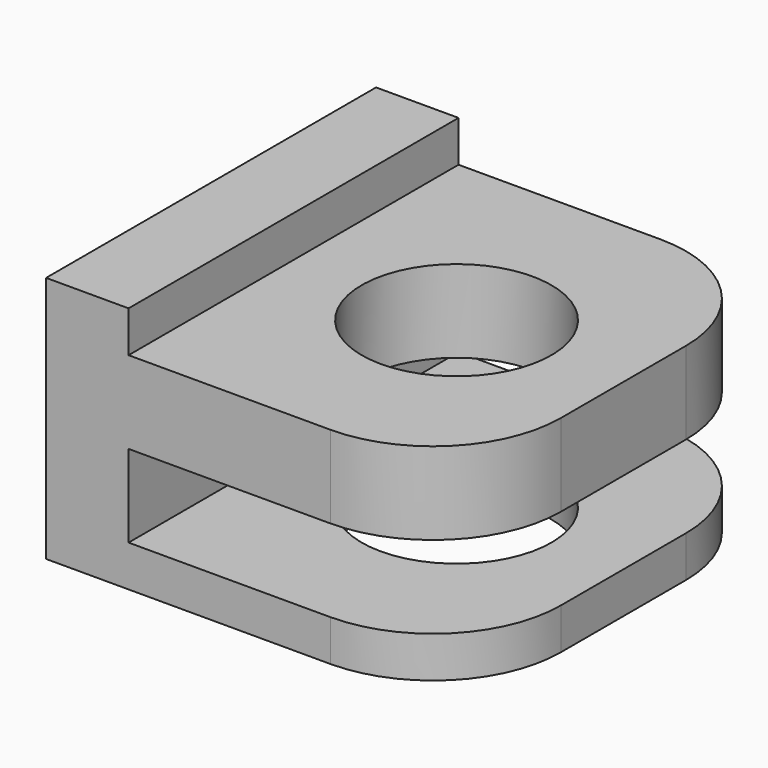
from build123d import *

# Parameters (mm, degrees)
BOX106_W                                  = 10
BOX106_H                                  = 10
BOX106_DEPTH                              = 1
BOX105_W                                  = 10
BOX105_H                                  = 10
BOX105_DEPTH                              = 10
SKETCH012_AS_DRAWN_R                      = 1.15
EXTRUDE002_DEPTH                          = 3
EXTRUDE002_ONTO_SKETCH012_PLACEMENT_ANGLE = -90


with BuildPart() as cubo106:
    # Box106 → Box106 (new body)
    with BuildSketch(Plane(origin=(-4, 226, -1), x_dir=(1, 0, 0), z_dir=(0, 0, 1))):
        with Locations((5, 5)):
            Rectangle(BOX106_W, BOX106_H)
    extrude(amount=BOX106_DEPTH)


with BuildPart() as cubo105:
    # Box105 → Box105 (new body)
    with BuildSketch(Plane(origin=(-4, 225, 1), x_dir=(1, 0, 0), z_dir=(0, 0, 1))):
        with Locations((5, 5)):
            Rectangle(BOX105_W, BOX105_H)
    extrude(amount=BOX105_DEPTH)


with BuildPart() as obj1:
    # Sketch012 as drawn → Extrude002 (new)
    with BuildSketch(Plane.XY):
        with BuildLine():
            Line((-0.94599, 5), (0.94599, 5))
            ThreePointArc((2.5, 3.44599), (2.044841, 4.544841), (0.94599, 5))
            Line((2.5, 3.44599), (2.5, 0))
            Line((2.5, 0), (-2.5, 0))
            Line((-2.5, 0), (-2.5, 3.44599))
            ThreePointArc((-0.94599, 5), (-2.044841, 4.544841), (-2.5, 3.44599))
        make_face()
        with Locations((0, 2.97603)):
            Circle(SKETCH012_AS_DRAWN_R, mode=Mode.SUBTRACT)
    extrude(amount=EXTRUDE002_DEPTH)


with BuildPart() as obj1_1:
    # Extrude002 onto Sketch012 placement: moved
    add(obj1.part.moved(Location((-5, 232.4, 0))).rotate(Axis((-5, 232.4, 0), (0, 0, 1)), EXTRUDE002_ONTO_SKETCH012_PLACEMENT_ANGLE))


with BuildPart() as obj1_2:
    # Extrude002 placement: moved
    add(obj1_1.part.moved(Location((0, 0, -1.5))))

    # Cut054: cut Cubo105
    add(cubo105.part, mode=Mode.SUBTRACT)

    # Cut055: cut Cubo106
    add(cubo106.part, mode=Mode.SUBTRACT)


solid = obj1_2.part
